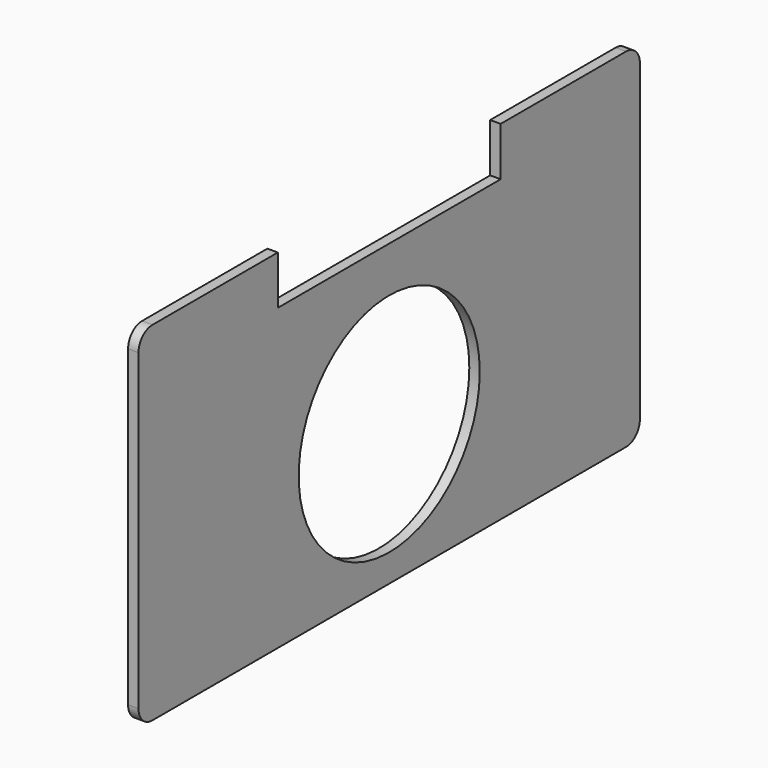
from build123d import *

# Parameters (mm, degrees)
F0_R     = 32.5
F1_DEPTH = 3


with BuildPart() as f1:
    # F0 (on Right) → F1 (new body)
    with BuildSketch(Plane.YZ):
        with BuildLine():
            ThreePointArc((90, 54.586), (88.535534, 58.121534), (85, 59.586))
            Line((85, 59.586), (40, 59.586))
            Line((40, 59.586), (40, 54.586))
            Line((40, 54.586), (40, 45.586))
            Line((40, 45.586), (-40, 45.586))
            Line((-40, 45.586), (-40, 54.586))
            Line((-40, 54.586), (-40, 59.586))
            Line((-40, 59.586), (-85, 59.586))
            ThreePointArc((-85, 59.586), (-88.535534, 58.121534), (-90, 54.586))
            Line((-90, 54.586), (-90, -35.414))
            ThreePointArc((-90, -35.414), (-88.535534, -38.949534), (-85, -40.414))
            Line((-85, -40.414), (85, -40.414))
            ThreePointArc((85, -40.414), (88.535534, -38.949534), (90, -35.414))
            Line((90, -35.414), (90, 54.586))
        make_face()
        Circle(F0_R, mode=Mode.SUBTRACT)
    extrude(amount=F1_DEPTH)


solid = f1.part
